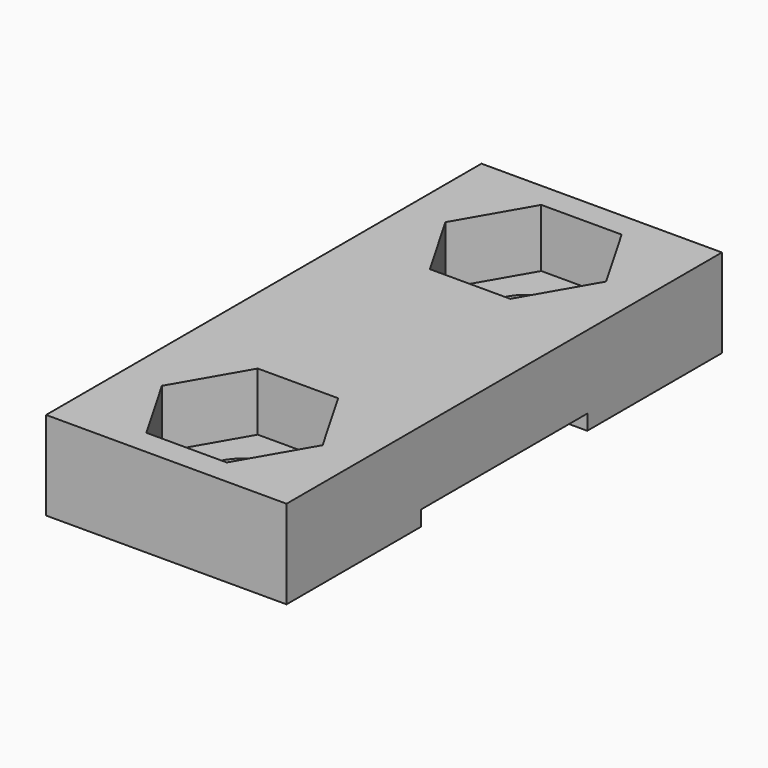
from build123d import *

# Parameters (mm, degrees)
F0_W     = 9.5
F0_H     = 21.5
F1_DEPTH = 3.5
F2_R     = 1.55
F3_DEPTH = 3.5
F4_W     = 9.5
F4_H     = 8.2
F5_DEPTH = 0.6
F7_DEPTH = 2.3


with BuildPart() as f1:
    # F0 (on Top) → F1 (new body)
    with BuildSketch(Plane.XY):
        Rectangle(F0_W, F0_H)
    extrude(amount=F1_DEPTH)

    # F2 (on face) → F3 (cut, through all)
    with BuildSketch(Plane.XY.offset(3.5)):
        with Locations((0, 7)):
            Circle(F2_R)
        with Locations((0, -7)):
            Circle(F2_R)
    extrude(amount=-F3_DEPTH, mode=Mode.SUBTRACT)

    # F4 (on face) → F5 (cut)
    with BuildSketch(Plane(origin=(0, 0, 0), x_dir=(1, 0, 0), z_dir=(0, 0, -1))):
        Rectangle(F4_W, F4_H)
    extrude(amount=-F5_DEPTH, mode=Mode.SUBTRACT)

    # F6 (on face) → F7 (cut)
    with BuildSketch(Plane.XY.offset(3.5)):
        Polygon((1.587713, 4.25), (3.175426, 7), (1.587713, 9.75), (-1.587713, 9.75), (-3.175426, 7), (-1.587713, 4.25), align=None)
        Polygon((1.587713, -9.75), (3.175426, -7), (1.587713, -4.25), (-1.587713, -4.25), (-3.175426, -7), (-1.587713, -9.75), align=None)
    extrude(amount=-F7_DEPTH, mode=Mode.SUBTRACT)


solid = f1.part
